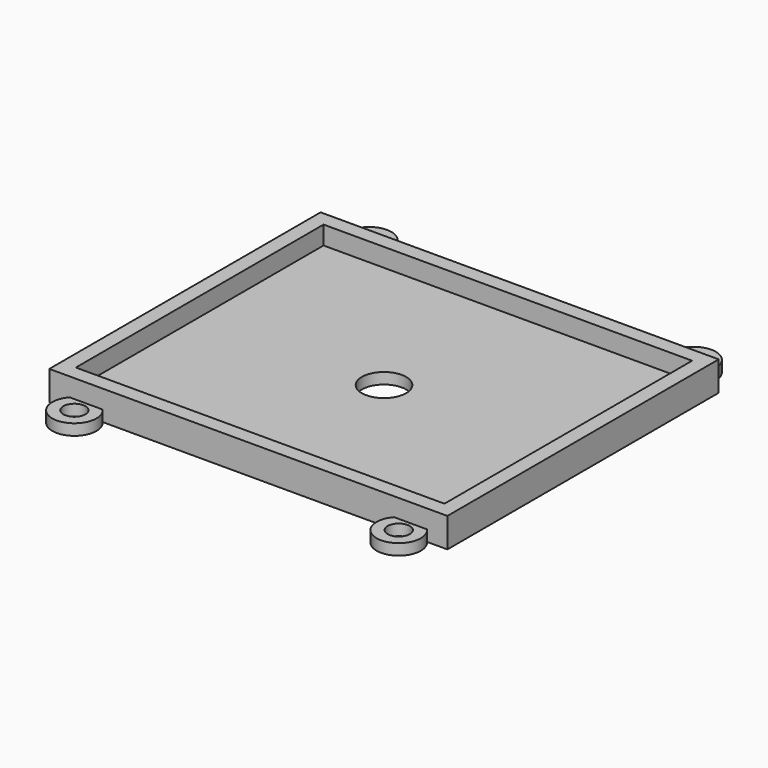
from build123d import *

# Parameters (mm, degrees)
SKETCH_W         = 54
SKETCH_H         = 46
SKETCH_W_2       = 50
SKETCH_H_2       = 42
EXTRUDE001_DEPTH = 4
SKETCH001_R      = 1.5
SKETCH001_R_2    = 3
EXTRUDE_DEPTH    = 1.5


with BuildPart() as extrude001:
    # Sketch → Extrude001 (new body)
    with BuildSketch(Plane.XY.offset(1.5)):
        Rectangle(SKETCH_W, SKETCH_H)
        Rectangle(SKETCH_W_2, SKETCH_H_2, mode=Mode.SUBTRACT)
    extrude(amount=EXTRUDE001_DEPTH)


with BuildPart() as fusion:
    # Sketch001 (on Sketch) → Extrude (new body)
    with BuildSketch(Plane.XY.offset(1.5)):
        with BuildLine():
            Line((27, 23), (27, -23))
            Line((27, -23), (24.236068, -23))
            ThreePointArc((19.763932, -23), (22, -28), (24.236068, -23))
            Line((19.763932, -23), (-19.763932, -23))
            ThreePointArc((-24.236068, -23), (-22, -28), (-19.763932, -23))
            Line((-24.236068, -23), (-27, -23))
            Line((-27, -23), (-27, 23))
            Line((-24.236068, 23), (-27, 23))
            ThreePointArc((-19.763932, 23), (-22, 28), (-24.236068, 23))
            Line((-19.763932, 23), (19.763932, 23))
            ThreePointArc((24.236068, 23), (22, 28), (19.763932, 23))
            Line((24.236068, 23), (27, 23))
        make_face()
        with Locations((-22, 25)):
            Circle(SKETCH001_R, mode=Mode.SUBTRACT)
        with Locations((22, 25)):
            Circle(SKETCH001_R, mode=Mode.SUBTRACT)
        with Locations((-22, -25)):
            Circle(SKETCH001_R, mode=Mode.SUBTRACT)
        with Locations((22, -25)):
            Circle(SKETCH001_R, mode=Mode.SUBTRACT)
        Circle(SKETCH001_R_2, mode=Mode.SUBTRACT)
    extrude(amount=EXTRUDE_DEPTH)

    # Fusion: union Extrude001
    add(extrude001.part)


solid = fusion.part
